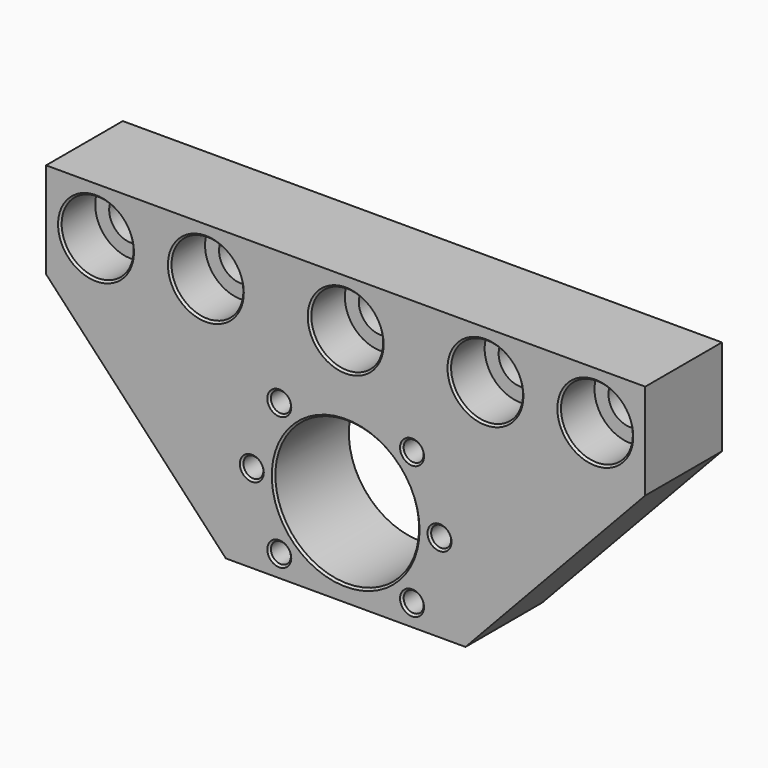
from build123d import *

# Parameters (mm, degrees)
F0_R     = 18
F1_DEPTH = 24
F2_R     = 2.5
F2_R_2   = 5.5
F3_DEPTH = 25
F4_R     = 9
F5_DEPTH = 11
F6_SIZE  = 0.5


with BuildPart() as f1:
    # F0 (on Front) → F1 (new body)
    with BuildSketch(Plane.XZ):
        Polygon((-30, -22), (30, -22), (75, 26), (75, 50), (0, 50), (-75, 50), (-75, 26), align=None)
        Circle(F0_R, mode=Mode.SUBTRACT)
    extrude(amount=F1_DEPTH)

    # F2 (on face) → F3 (cut)
    with BuildSketch(Plane.XZ.offset(24)):
        with Locations((-23.5, 0)):
            Circle(F2_R)
        with Locations((-16.617009, -16.617009)):
            Circle(F2_R)
        with Locations((16.617009, -16.617009)):
            Circle(F2_R)
        with Locations((23.5, 0)):
            Circle(F2_R)
        with Locations((16.617009, 16.617009)):
            Circle(F2_R)
        with Locations((-16.617009, 16.617009)):
            Circle(F2_R)
        with Locations((-62.5, 38)):
            Circle(F2_R_2)
        with Locations((-35, 38)):
            Circle(F2_R_2)
        with Locations((35, 38)):
            Circle(F2_R_2)
        with Locations((62.5, 38)):
            Circle(F2_R_2)
        with Locations((0, 38)):
            Circle(F2_R_2)
    extrude(amount=-F3_DEPTH, mode=Mode.SUBTRACT)

    # F4 (on face) → F5 (cut)
    with BuildSketch(Plane.XZ.offset(24)):
        with Locations((-62.5, 38)):
            Circle(F4_R)
        with Locations((-35, 38)):
            Circle(F4_R)
        with Locations((62.5, 38)):
            Circle(F4_R)
        with Locations((35, 38)):
            Circle(F4_R)
        with Locations((0, 38)):
            Circle(F4_R)
    extrude(amount=-F5_DEPTH, mode=Mode.SUBTRACT)

    # F6
    f6_edges = [f1.edges().sort_by_distance(p)[0] for p in [
        (-71.5, -24, 38),
        (-44, -24, 38),
        (-19.117009, -24, 16.617009),
        (-26, -24, 0),
        (-19.117009, -24, -16.617009),
        (-18, -24, 0),
        (14.117009, -24, 16.617009),
        (26, -24, 38),
        (53.5, -24, 38),
        (21, -24, 0),
        (14.117009, -24, -16.617009),
        (-68, 0, 38),
        (-40.5, 0, 38),
        (-19.117009, 0, 16.617009),
        (-26, 0, 0),
        (-19.117009, 0, -16.617009),
        (-18, 0, 0),
        (14.117009, 0, -16.617009),
        (21, 0, 0),
        (14.117009, 0, 16.617009),
        (29.5, 0, 38),
        (57, 0, 38),
        (-9, -24, 38),
        (-5.5, 0, 38),
    ]]
    chamfer(f6_edges, length=F6_SIZE)


solid = f1.part
